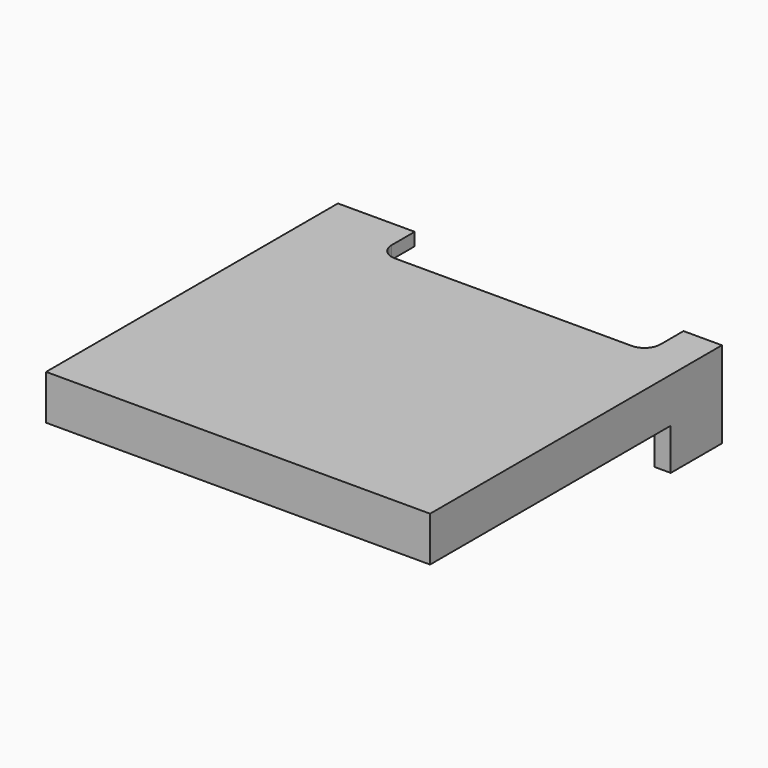
from build123d import *

# Parameters (mm, degrees)
F1_DEPTH = 1.4
F3_DEPTH = 1
F4_W     = 0.5
F4_H     = 2
F5_DEPTH = 1.3
F6_R     = 0.5


with BuildPart() as f1:
    # F0 (on Top) → F1 (new body)
    with BuildSketch(Plane.XY):
        Polygon((0, 11.4), (0, 0), (12, 0), (12, 11.4), (10.8, 11.4), (10.8, 10), (2.4, 10), (2.4, 11.4), align=None)
    extrude(amount=F1_DEPTH)

    # F2 (on face) → F3 (cut)
    with BuildSketch(Plane(origin=(0, 0, 0), x_dir=(1, 0, 0), z_dir=(0, 0, -1))):
        Polygon((11.5, -0.5), (0.5, -0.5), (0.5, -11.4), (2.4, -11.4), (2.4, -10), (10.8, -10), (10.8, -11.4), (11.5, -11.4), align=None)
    extrude(amount=-F3_DEPTH, mode=Mode.SUBTRACT)

    # F4 (on face) → F5 (join)
    with BuildSketch(Plane(origin=(0, 0, 0), x_dir=(1, 0, 0), z_dir=(0, 0, -1))):
        with Locations((0.25, -10.4)):
            Rectangle(F4_W, F4_H)
        with Locations((11.75, -10.4)):
            Rectangle(F4_W, F4_H)
    extrude(amount=F5_DEPTH)

    # F6
    f6_edges = [f1.edges().sort_by_distance(p)[0] for p in [
        (10.8, 10, 1.2),
        (2.4, 10, 1.2),
    ]]
    fillet(f6_edges, radius=F6_R)


solid = f1.part
